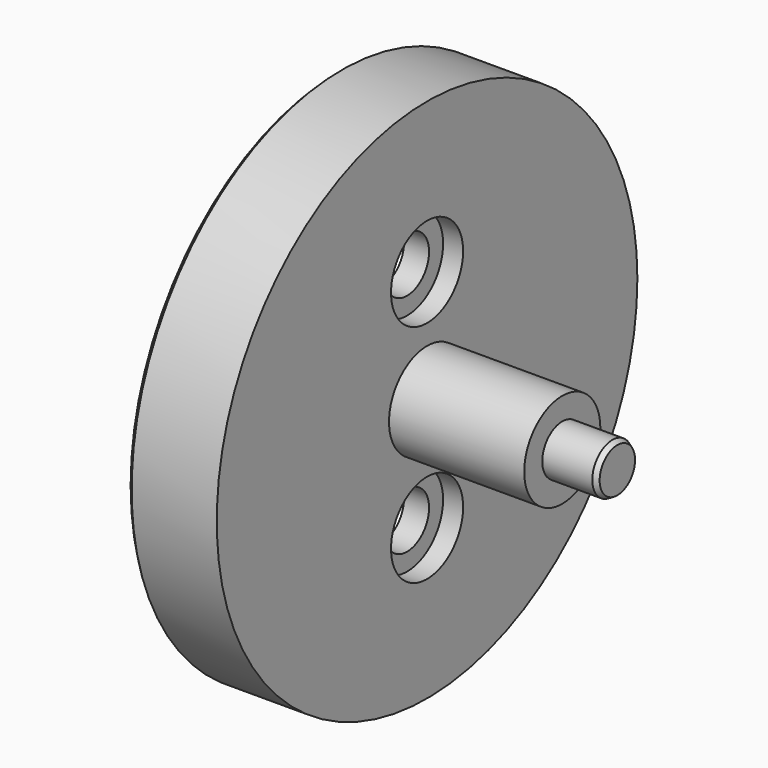
from build123d import *

# Parameters (mm, degrees)
F0_R            = 52.5
F1_DEPTH        = 18
F2_R            = 45.125
F3_DEPTH        = 9
F4_SIZE         = 1
F5_R            = 9.5
F6_DEPTH        = 27
F7_R            = 5
F8_DEPTH        = 11
F9_SIZE2        = 0.5773502692
F9_SIZE         = 1
F11_D           = 11
F11_CBORE_D     = 18
F11_CBORE_DEPTH = 4


with BuildPart() as f1:
    # F0 (on Right) → F1 (new body)
    with BuildSketch(Plane.YZ):
        Circle(F0_R)
    extrude(amount=-F1_DEPTH)

    # F2 (on face) → F3 (cut)
    with BuildSketch(Plane(origin=(-18, 0, 0), x_dir=(0, -1, 0), z_dir=(-1, 0, 0))):
        Circle(F2_R)
    extrude(amount=-F3_DEPTH, mode=Mode.SUBTRACT)

    # F4
    f4_edges = [f1.edges().sort_by_distance(p)[0] for p in [
        (-18, -52.5, 0),
        (-18, 45.125, 0),
    ]]
    chamfer(f4_edges, length=F4_SIZE)

    # F5 (on face) → F6 (join)
    with BuildSketch(Plane.YZ):
        Circle(F5_R)
    extrude(amount=F6_DEPTH)

    # F7 (on face) → F8 (join)
    with BuildSketch(Plane.YZ.offset(27)):
        Circle(F7_R)
    extrude(amount=F8_DEPTH)

    # F9
    f9_edges = [f1.edges().sort_by_distance(p)[0] for p in [
        (38, -5, 0),
    ]]
    f9_side = f1.faces().sort_by_distance((32.5, -5, 0))[0]
    chamfer(f9_edges, length=F9_SIZE, length2=F9_SIZE2, reference=f9_side)

    # F11 (through all)
    with Locations(Plane.YZ):
        with Locations((0, -22.5), (0, 22.5)):
            CounterBoreHole(F11_D / 2, F11_CBORE_D / 2, F11_CBORE_DEPTH)


solid = f1.part
